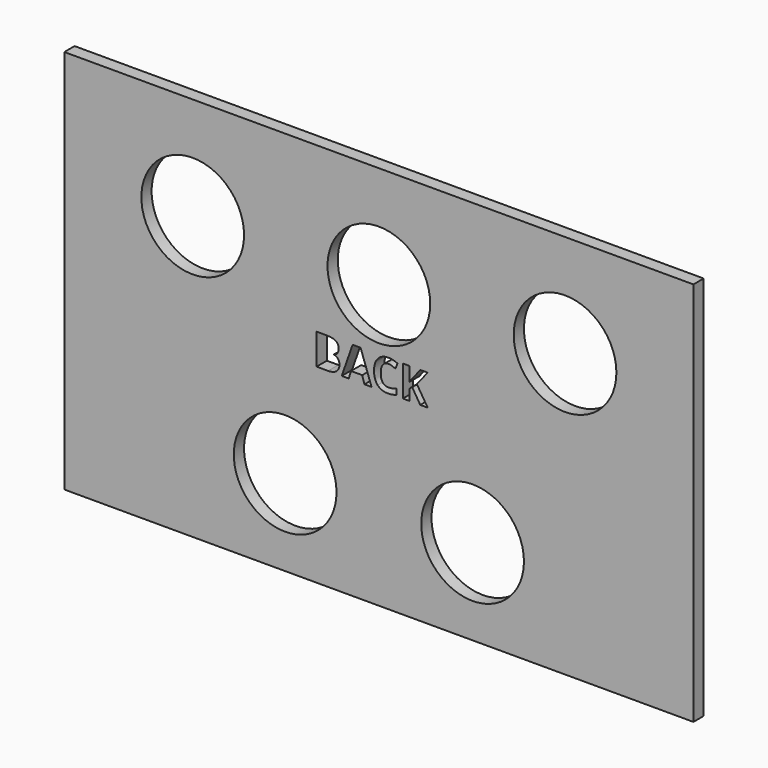
from build123d import *

# Parameters (mm, degrees)
F0_W     = 490
F0_H     = 300
F0_R     = 40
F1_DEPTH = 10


with BuildPart() as f1:
    # F0 (on Front) → F1 (new body)
    with BuildSketch(Plane.XZ):
        with Locations((-0.399902463, 39.0987883966)):
            Rectangle(F0_W, F0_H)
        with Locations((-73.399902463, -43.9012116034)):
            Circle(F0_R, mode=Mode.SUBTRACT)
        with Locations((72.600097537, -43.9012116034)):
            Circle(F0_R, mode=Mode.SUBTRACT)
        with Locations((-145.399902463, 109.0987883966)):
            Circle(F0_R, mode=Mode.SUBTRACT)
        with BuildLine():
            Line((-48.9174100908, 37.2675955296), (-48.9174100908, 61.2824691319))
            Line((-48.9174100908, 61.2824691319), (-41.4433128568, 61.2824691319))
            add(Edge.make_bspline(
                [(-41.4433128568, 61.2824691319), (-36.3344362664, 61.2824691319), (-34.0270321273, 59.8291724475)],
                knots=[0, 0, 0, 1, 1, 1], degree=2))
            add(Edge.make_bspline(
                [(-34.0270321273, 59.8291724475), (-31.7196279882, 58.3758757631), (-31.7196279882, 55.2064801005)],
                knots=[0, 0, 0, 1, 1, 1], degree=2))
            add(Edge.make_bspline(
                [(-31.7196279882, 55.2064801005), (-31.7196279882, 53.0515012918), (-32.7287887962, 51.6717892497)],
                knots=[0, 0, 0, 1, 1, 1], degree=2))
            add(Edge.make_bspline(
                [(-32.7287887962, 51.6717892497), (-33.7379496042, 50.2920772075), (-35.4146282383, 50.0135067761)],
                knots=[0, 0, 0, 1, 1, 1], degree=2))
            Line((-35.4146282383, 50.0135067761), (-35.4146282383, 49.850569354))
            add(Edge.make_bspline(
                [(-35.4146282383, 49.850569354), (-33.1335043286, 49.3407329042), (-32.1217154976, 47.9452527244)],
                knots=[0, 0, 0, 1, 1, 1], degree=2))
            add(Edge.make_bspline(
                [(-32.1217154976, 47.9452527244), (-31.1099266667, 46.5497725446), (-31.1099266667, 44.2318563138)],
                knots=[0, 0, 0, 1, 1, 1], degree=2))
            add(Edge.make_bspline(
                [(-31.1099266667, 44.2318563138), (-31.1099266667, 40.946827642), (-33.4856594022, 39.1072115858)],
                knots=[0, 0, 0, 1, 1, 1], degree=2))
            add(Edge.make_bspline(
                [(-33.4856594022, 39.1072115858), (-35.8613921376, 37.2675955296), (-39.9348276907, 37.2675955296)],
                knots=[0, 0, 0, 1, 1, 1], degree=2))
            Line((-39.9348276907, 37.2675955296), (-48.9174100908, 37.2675955296))
        make_face(mode=Mode.SUBTRACT)
        Polygon((-6.1279406234, 37.2675955296), (-11.6152525168, 37.2675955296), (-13.3550037014, 42.9861734414), (-22.1115761289, 42.9861734414), (-23.8513273135, 37.2675955296), (-29.3386392069, 37.2675955296), (-20.8606372107, 61.3823340035), (-14.6374788949, 61.3823340035), align=None, mode=Mode.SUBTRACT)
        with BuildLine():
            add(Edge.make_bspline(
                [(9.7715981481, 56.9120669869), (8.4102822665, 57.3877391386), (7.0962707978, 57.3877391386)],
                knots=[0, 0, 0, 1, 1, 1], degree=2))
            add(Edge.make_bspline(
                [(7.0962707978, 57.3877391386), (4.2212137042, 57.3877391386), (2.6443999418, 55.227504284)],
                knots=[0, 0, 0, 1, 1, 1], degree=2))
            add(Edge.make_bspline(
                [(2.6443999418, 55.227504284), (1.0675861793, 53.0672694294), (1.0675861793, 49.2093317573)],
                knots=[0, 0, 0, 1, 1, 1], degree=2))
            add(Edge.make_bspline(
                [(1.0675861793, 49.2093317573), (1.0675861793, 41.1780936605), (7.0962707978, 41.1780936605)],
                knots=[0, 0, 0, 1, 1, 1], degree=2))
            add(Edge.make_bspline(
                [(7.0962707978, 41.1780936605), (9.6244288636, 41.1780936605), (13.219564242, 42.4395446704)],
                knots=[0, 0, 0, 1, 1, 1], degree=2))
            Line((13.219564242, 42.4395446704), (13.219564242, 38.17163542))
            add(Edge.make_bspline(
                [(13.219564242, 38.17163542), (10.2656664603, 36.9364646394), (6.6179706232, 36.9364646394)],
                knots=[0, 0, 0, 1, 1, 1], degree=2))
            add(Edge.make_bspline(
                [(6.6179706232, 36.9364646394), (1.3776928859, 36.9364646394), (-1.397499336, 40.1163723937)],
                knots=[0, 0, 0, 1, 1, 1], degree=2))
            add(Edge.make_bspline(
                [(-1.397499336, 40.1163723937), (-4.172691558, 43.296280148), (-4.172691558, 49.2408680325)],
                knots=[0, 0, 0, 1, 1, 1], degree=2))
            add(Edge.make_bspline(
                [(-4.172691558, 49.2408680325), (-4.172691558, 52.9884287413), (-2.8087476534, 55.8056693303)],
                knots=[0, 0, 0, 1, 1, 1], degree=2))
            add(Edge.make_bspline(
                [(-2.8087476534, 55.8056693303), (-1.4448037489, 58.6229099192), (1.1096345463, 60.1235110165)],
                knots=[0, 0, 0, 1, 1, 1], degree=2))
            add(Edge.make_bspline(
                [(1.1096345463, 60.1235110165), (3.6640728415, 61.6241121138), (7.0962707978, 61.6241121138)],
                knots=[0, 0, 0, 1, 1, 1], degree=2))
            add(Edge.make_bspline(
                [(7.0962707978, 61.6241121138), (10.5915413046, 61.6241121138), (14.1236041325, 59.9369213879)],
                knots=[0, 0, 0, 1, 1, 1], degree=2))
            Line((14.1236041325, 59.9369213879), (12.4837178195, 55.7951572385))
            add(Edge.make_bspline(
                [(12.4837178195, 55.7951572385), (11.1329140297, 56.4363948352), (9.7715981481, 56.9120669869)],
                knots=[0, 0, 0, 1, 1, 1], degree=2))
        make_face(mode=Mode.SUBTRACT)
        Polygon((29.2031997475, 50.6547443729), (37.6444094226, 37.2675955296), (31.8627589602, 37.2675955296), (25.571272048, 47.3854838387), (23.4215492852, 45.8402063515), (23.4215492852, 37.2675955296), (18.3284408324, 37.2675955296), (18.3284408324, 61.2824691319), (23.4215492852, 61.2824691319), (23.4215492852, 50.2920772075), (25.4241027635, 53.1198298882), (31.9310875566, 61.2824691319), (37.5813368721, 61.2824691319), align=None, mode=Mode.SUBTRACT)
        with Locations((-0.399902463, 109.0987883966)):
            Circle(F0_R, mode=Mode.SUBTRACT)
        with Locations((144.600097537, 109.0987883966)):
            Circle(F0_R, mode=Mode.SUBTRACT)
    extrude(amount=F1_DEPTH)


solid = f1.part
